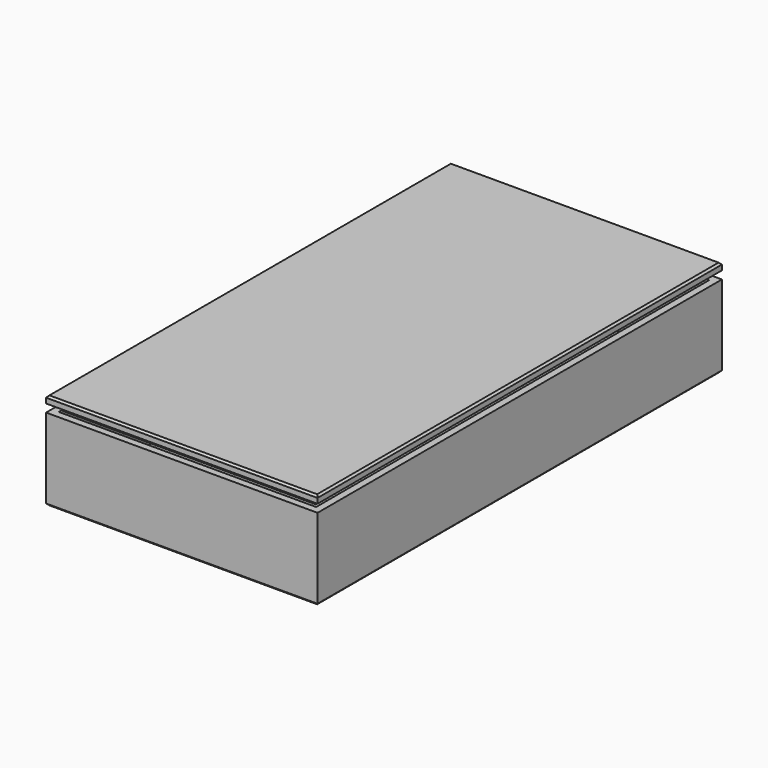
from build123d import *

# Parameters (mm, degrees)
F0_W      = 58
F0_H      = 108
F1_DEPTH  = 1.5
F2_W      = 58
F2_H      = 108
F2_W_2    = 55
F2_H_2    = 105
F3_DEPTH  = 16
F5_W      = 54.2
F5_H      = 104.2
F6_DEPTH  = 1.5
F7_W      = 58
F7_H      = 108
F8_DEPTH  = 1.5
F9_SIZE   = 0.4
F9_2_SIZE = 0.4


with BuildPart() as f1:
    # F0 (on Top) → F1 (new body)
    with BuildSketch(Plane.XY):
        Rectangle(F0_W, F0_H)
    extrude(amount=F1_DEPTH)

    # F2 (on face) → F3 (join)
    with BuildSketch(Plane.XY.offset(1.5)):
        Rectangle(F2_W, F2_H)
        Rectangle(F2_W_2, F2_H_2, mode=Mode.SUBTRACT)
    extrude(amount=F3_DEPTH)

    # F9#2
    f9_2_edges = [f1.edges().sort_by_distance(p)[0] for p in [
        (0, -54, 0),
        (29, 0, 0),
        (0, 54, 0),
        (-29, 0, 0),
    ]]
    chamfer(f9_2_edges, length=F9_2_SIZE)


with BuildPart() as f6:
    # F5 (on offset) → F6 (new body)
    with BuildSketch(Plane.XY.offset(17.7)):
        Rectangle(F5_W, F5_H)
    extrude(amount=F6_DEPTH)

    # F7 (on face) → F8 (join)
    with BuildSketch(Plane.XY.offset(19.2)):
        Rectangle(F7_W, F7_H)
    extrude(amount=F8_DEPTH)

    # F9
    f9_edges = [f6.edges().sort_by_distance(p)[0] for p in [
        (0, -54, 20.7),
        (29, 0, 20.7),
        (0, 54, 20.7),
        (-29, 0, 20.7),
    ]]
    chamfer(f9_edges, length=F9_SIZE)


solid = Compound([f1.part, f6.part])
